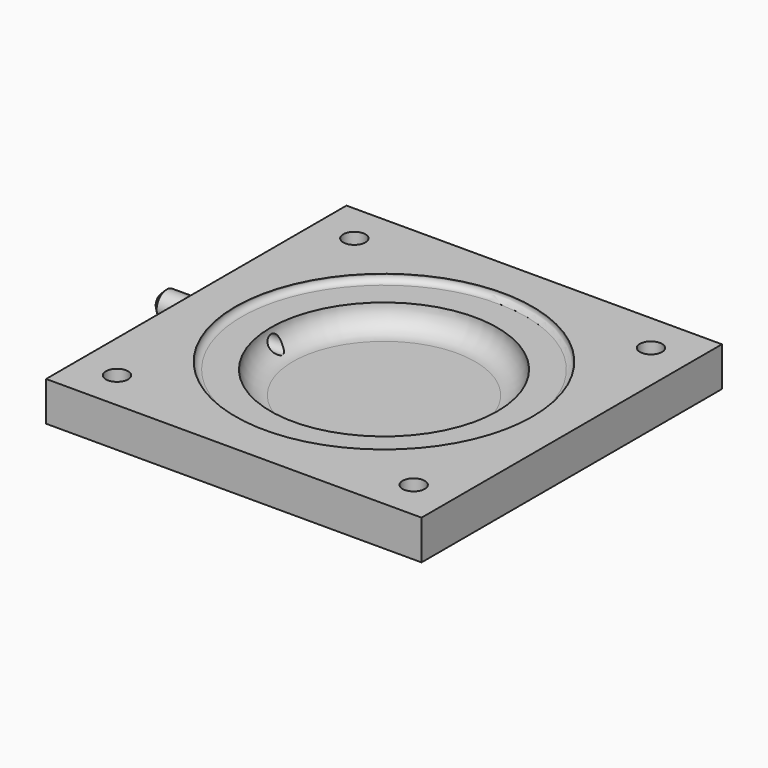
from build123d import *

# Parameters (mm, degrees)
SKETCH_W        = 76.2
SKETCH_H        = 76.2
PAD_DEPTH       = 8
SKETCH002_R     = 2.25
POCKET001_DEPTH = 10.001
SKETCH003_R     = 23
POCKET002_DEPTH = 6
SKETCH004_R     = 2.55
PAD001_DEPTH    = 7
SKETCH006_R     = 30.165
POCKET_DEPTH    = 1.4
CHAMFER_SIZE    = 1
FILLET_R        = 4.5
FILLET001_R     = 1.25
FILLET002_R     = 2
SKETCH005_R     = 1.5
POCKET003_DEPTH = 30


with BuildPart() as part:
    # Sketch → Pad (new body)
    with BuildSketch(Plane.XY):
        with Locations((38.1, 38.1)):
            Rectangle(SKETCH_W, SKETCH_H)
    extrude(amount=PAD_DEPTH)

    # Sketch002 → Pocket001 (cut, through all)
    with BuildSketch(Plane.XY.offset(10)):
        with Locations((8, 8)):
            Circle(SKETCH002_R)
        with Locations((8, 68.2)):
            Circle(SKETCH002_R)
        with Locations((68.2, 68.2)):
            Circle(SKETCH002_R)
        with Locations((68.2, 8)):
            Circle(SKETCH002_R)
    extrude(amount=-POCKET001_DEPTH, mode=Mode.SUBTRACT)

    # Sketch003 (on Face5 of Pocket001) → Pocket002 (cut)
    with BuildSketch(Plane.XY.offset(8)):
        with Locations((38.1, 38.1)):
            Circle(SKETCH003_R)
    extrude(amount=-POCKET002_DEPTH, mode=Mode.SUBTRACT)

    # Sketch004 (on Face2 of Pocket002) → Pad001 (join)
    with BuildSketch(Plane(origin=(0, 0, 0), x_dir=(0, -1, 0), z_dir=(-1, 0, 0))):
        with Locations((-38.1, 4)):
            Circle(SKETCH004_R)
    extrude(amount=PAD001_DEPTH)

    # Sketch006 (on Face5 of Pad001) → Pocket (cut)
    with BuildSketch(Plane.XY.offset(8)):
        with Locations((38.1, 38.1)):
            Circle(SKETCH006_R)
    extrude(amount=-POCKET_DEPTH, mode=Mode.SUBTRACT)

    # Chamfer
    chamfer_edges = [part.edges().sort_by_distance(p)[0] for p in [
        (-7, 40.65, 4),
    ]]
    chamfer(chamfer_edges, length=CHAMFER_SIZE)

    # Fillet
    fillet_edges = [part.edges().sort_by_distance(p)[0] for p in [
        (15.1, 38.1, 2),
    ]]
    fillet(fillet_edges, radius=FILLET_R)

    # Fillet001
    fillet001_edges = [part.edges().sort_by_distance(p)[0] for p in [
        (7.935, 38.1, 6.6),
    ]]
    fillet(fillet001_edges, radius=FILLET001_R)

    # Fillet002
    fillet002_edges = [part.edges().sort_by_distance(p)[0] for p in [
        (0, 40.65, 4),
    ]]
    fillet(fillet002_edges, radius=FILLET002_R)

    # Sketch005 (on Face13 of Pad001) → Pocket003 (cut)
    with BuildSketch(Plane(origin=(-7, 0, 0), x_dir=(0, -1, 0), z_dir=(-1, 0, 0))):
        with Locations((-38.1, 4)):
            Circle(SKETCH005_R)
    extrude(amount=-POCKET003_DEPTH, mode=Mode.SUBTRACT)


solid = part.part
